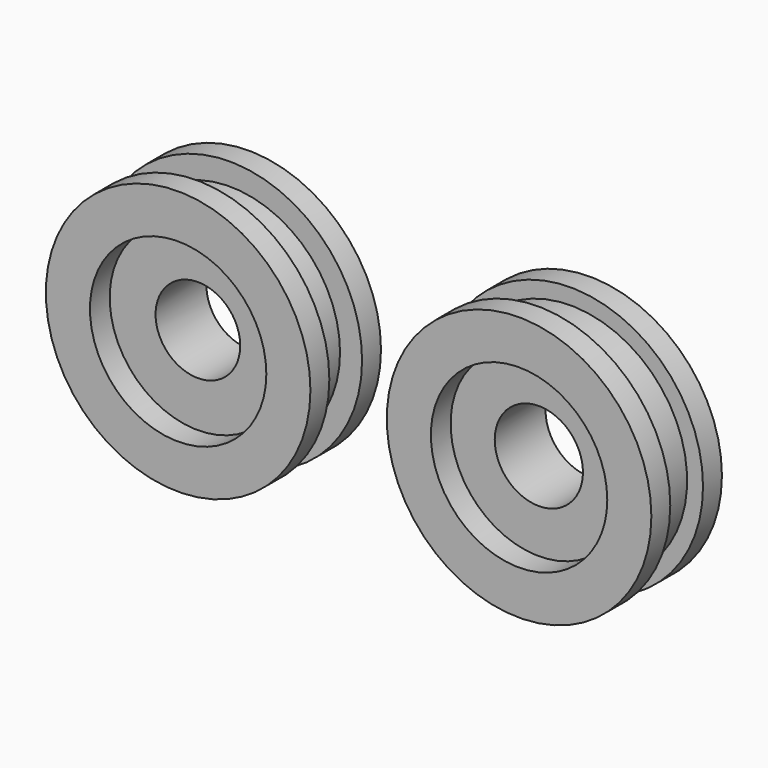
from build123d import *

# Parameters (mm, degrees)
F2_R      = 9.525
F3_DEPTH  = 6.35
F5_R      = 9.525
F5_R_2    = 8.382
F6_DEPTH  = 1.4732
F7_R      = 3.175
F8_DEPTH  = 6.351
F9_R      = 6.35
F9_R_2    = 3.175
F10_DEPTH = 1.778


with BuildPart() as f1:
    # F0 (on Top) → F1 (revolve)
    with BuildSketch(Plane.XY):
        Polygon((9.525, 0), (3.048, 0), (3.048, -4.572), (6.35, -4.572), (6.35, -6.35), (9.525, -6.35), (9.525, -4.6482), (7.9375, -4.6482), (7.9375, -1.7018), (9.525, -1.7018), align=None)
    revolve(axis=Axis((0, -3.175, 0), (0, -1, 0)))


with BuildPart() as f3:
    # F2 (on Front) → F3 (new body)
    with BuildSketch(Plane.XZ):
        with Locations((24.5476167689, 0)):
            Circle(F2_R)
    extrude(amount=F3_DEPTH)

    # F5 (on mid) → F6 (cut, symmetric)
    with BuildSketch(Plane(origin=(0, -3.175, 0), x_dir=(-1, 0, 0), z_dir=(0, 1, 0))):
        with Locations((-24.5476167689, 0)):
            Circle(F5_R)
        with Locations((-24.5476167689, 0)):
            Circle(F5_R_2, mode=Mode.SUBTRACT)
    extrude(amount=F6_DEPTH, both=True, mode=Mode.SUBTRACT)

    # F7 (on face) → F8 (cut, through all)
    with BuildSketch(Plane(origin=(0, 0, 0), x_dir=(-1, 0, 0), z_dir=(0, 1, 0))):
        with Locations((-24.5476167689, 0)):
            Circle(F7_R)
    extrude(amount=-F8_DEPTH, mode=Mode.SUBTRACT)

    # F9 (on face) → F10 (cut)
    with BuildSketch(Plane.XZ.offset(6.35)):
        with Locations((24.5476167689, 0)):
            Circle(F9_R)
        with Locations((24.5476167689, 0)):
            Circle(F9_R_2, mode=Mode.SUBTRACT)
        with Locations((24.5476167689, 0)):
            Circle(F9_R_2)
    extrude(amount=-F10_DEPTH, mode=Mode.SUBTRACT)


solid = Compound([f1.part, f3.part])
